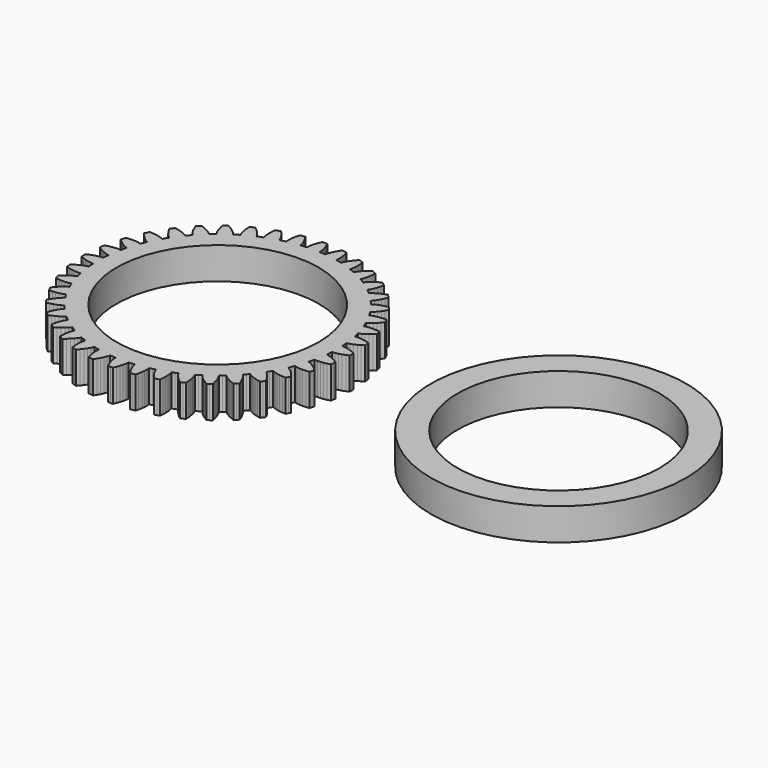
from build123d import *

# Parameters (mm, degrees)
F0_R     = 4.75
F1_DEPTH = 1.5
F2_R     = 6
F2_R_2   = 4.75
F3_DEPTH = 1.5


with BuildPart() as f1:
    # F0 (on Top) → F1 (new body)
    with BuildSketch(Plane.XY):
        Polygon((5.595243, -0.577821), (5.60766, -0.441332), (5.616748, -0.304581), (5.75245, -0.294828), (5.888982, -0.266302), (6.02578, -0.225568), (6.16253, -0.1745), (6.298967, -0.114093), (6.3, 0), (6.298967, 0.114093), (6.16253, 0.1745), (6.02578, 0.225568), (5.888982, 0.266302), (5.75245, 0.294828), (5.616748, 0.304581), (5.60766, 0.441332), (5.595243, 0.577821), (5.727749, 0.608683), (5.858138, 0.658216), (5.986879, 0.719849), (6.113957, 0.79168), (6.239264, 0.872687), (6.222437, 0.985537), (6.203568, 1.098064), (6.059361, 1.136384), (5.916306, 1.16543), (5.77482, 1.184263), (5.635506, 1.19108), (5.499949, 1.179484), (5.469581, 1.31313), (5.435965, 1.445996), (5.562012, 1.497207), (5.683047, 1.566527), (5.800561, 1.647541), (5.914838, 1.738367), (6.02593, 1.837978), (5.991656, 1.946807), (5.955417, 2.054997), (5.806991, 2.070286), (5.661153, 2.076596), (5.518463, 2.073064), (5.379798, 2.058003), (5.247724, 2.025345), (5.196822, 2.152594), (5.142836, 2.278566), (5.259319, 2.348864), (5.36802, 2.436265), (5.471414, 2.534664), (5.570076, 2.642249), (5.664218, 2.758013), (5.613341, 2.86014), (5.560623, 2.961329), (5.411633, 2.953211), (5.266603, 2.936629), (5.126223, 2.910819), (4.991621, 2.874251), (4.866282, 2.821334), (4.796101, 2.939054), (4.723073, 3.05503), (4.827125, 3.142684), (4.920815, 3.246014), (5.007543, 3.359376), (5.08816, 3.48107), (5.163034, 3.610136), (5.096807, 3.703047), (5.028909, 3.794743), (4.883023, 3.763418), (4.742373, 3.724352), (4.607758, 3.6769), (4.480534, 3.619726), (4.365016, 3.547853), (4.277284, 3.653145), (4.187012, 3.756269), (4.276071, 3.859121), (4.352443, 3.975835), (4.42037, 4.101369), (4.480957, 4.234176), (4.534718, 4.373366), (4.454773, 4.454773), (4.373366, 4.534718), (4.234176, 4.480957), (4.101369, 4.42037), (3.975835, 4.352443), (3.859121, 4.276071), (3.756269, 4.187012), (3.653145, 4.277284), (3.547853, 4.365016), (3.619726, 4.480534), (3.6769, 4.607758), (3.724352, 4.742373), (3.763418, 4.883023), (3.794743, 5.028909), (3.703047, 5.096807), (3.610136, 5.163034), (3.48107, 5.08816), (3.359376, 5.007543), (3.246014, 4.920815), (3.142684, 4.827125), (3.05503, 4.723073), (2.939054, 4.796101), (2.821334, 4.866282), (2.874251, 4.991621), (2.910819, 5.126223), (2.936629, 5.266603), (2.953211, 5.411633), (2.961329, 5.560623), (2.86014, 5.613341), (2.758013, 5.664218), (2.642249, 5.570076), (2.534664, 5.471414), (2.436265, 5.36802), (2.348864, 5.259319), (2.278566, 5.142836), (2.152594, 5.196822), (2.025345, 5.247724), (2.058003, 5.379798), (2.073064, 5.518463), (2.076596, 5.661153), (2.070286, 5.806991), (2.054997, 5.955417), (1.946807, 5.991656), (1.837978, 6.02593), (1.738367, 5.914838), (1.647541, 5.800561), (1.566527, 5.683047), (1.497207, 5.562012), (1.445996, 5.435965), (1.31313, 5.469581), (1.179484, 5.499949), (1.19108, 5.635506), (1.184263, 5.77482), (1.16543, 5.916306), (1.136384, 6.059361), (1.098064, 6.203568), (0.985537, 6.222437), (0.872687, 6.239264), (0.79168, 6.113957), (0.719849, 5.986879), (0.658216, 5.858138), (0.608683, 5.727749), (0.577821, 5.595243), (0.441332, 5.60766), (0.304581, 5.616748), (0.294828, 5.75245), (0.266302, 5.888982), (0.225568, 6.02578), (0.1745, 6.16253), (0.114093, 6.298967), (0, 6.3), (-0.114093, 6.298967), (-0.1745, 6.16253), (-0.225568, 6.02578), (-0.266302, 5.888982), (-0.294828, 5.75245), (-0.304581, 5.616748), (-0.441332, 5.60766), (-0.577821, 5.595243), (-0.608683, 5.727749), (-0.658216, 5.858138), (-0.719849, 5.986879), (-0.79168, 6.113957), (-0.872687, 6.239264), (-0.985537, 6.222437), (-1.098064, 6.203568), (-1.136384, 6.059361), (-1.16543, 5.916306), (-1.184263, 5.77482), (-1.19108, 5.635506), (-1.179484, 5.499949), (-1.31313, 5.469581), (-1.445996, 5.435965), (-1.497207, 5.562012), (-1.566527, 5.683047), (-1.647541, 5.800561), (-1.738367, 5.914838), (-1.837978, 6.02593), (-1.946807, 5.991656), (-2.054997, 5.955417), (-2.070286, 5.806991), (-2.076596, 5.661153), (-2.073064, 5.518463), (-2.058003, 5.379798), (-2.025345, 5.247724), (-2.152594, 5.196822), (-2.278566, 5.142836), (-2.348864, 5.259319), (-2.436265, 5.36802), (-2.534664, 5.471414), (-2.642249, 5.570076), (-2.758013, 5.664218), (-2.86014, 5.613341), (-2.961329, 5.560623), (-2.953211, 5.411633), (-2.936629, 5.266603), (-2.910819, 5.126223), (-2.874251, 4.991621), (-2.821334, 4.866282), (-2.939054, 4.796101), (-3.05503, 4.723073), (-3.142684, 4.827125), (-3.246014, 4.920815), (-3.359376, 5.007543), (-3.48107, 5.08816), (-3.610136, 5.163034), (-3.703047, 5.096807), (-3.794743, 5.028909), (-3.763418, 4.883023), (-3.724352, 4.742373), (-3.6769, 4.607758), (-3.619726, 4.480534), (-3.547853, 4.365016), (-3.653145, 4.277284), (-3.756269, 4.187012), (-3.859121, 4.276071), (-3.975835, 4.352443), (-4.101369, 4.42037), (-4.234176, 4.480957), (-4.373366, 4.534718), (-4.454773, 4.454773), (-4.534718, 4.373366), (-4.480957, 4.234176), (-4.42037, 4.101369), (-4.352443, 3.975835), (-4.276071, 3.859121), (-4.187012, 3.756269), (-4.277284, 3.653145), (-4.365016, 3.547853), (-4.480534, 3.619726), (-4.607758, 3.6769), (-4.742373, 3.724352), (-4.883023, 3.763418), (-5.028909, 3.794743), (-5.096807, 3.703047), (-5.163034, 3.610136), (-5.08816, 3.48107), (-5.007543, 3.359376), (-4.920815, 3.246014), (-4.827125, 3.142684), (-4.723073, 3.05503), (-4.796101, 2.939054), (-4.866282, 2.821334), (-4.991621, 2.874251), (-5.126223, 2.910819), (-5.266603, 2.936629), (-5.411633, 2.953211), (-5.560623, 2.961329), (-5.613341, 2.86014), (-5.664218, 2.758013), (-5.570076, 2.642249), (-5.471414, 2.534664), (-5.36802, 2.436265), (-5.259319, 2.348864), (-5.142836, 2.278566), (-5.196822, 2.152594), (-5.247724, 2.025345), (-5.379798, 2.058003), (-5.518463, 2.073064), (-5.661153, 2.076596), (-5.806991, 2.070286), (-5.955417, 2.054997), (-5.991656, 1.946807), (-6.02593, 1.837978), (-5.914838, 1.738367), (-5.800561, 1.647541), (-5.683047, 1.566527), (-5.562012, 1.497207), (-5.435965, 1.445996), (-5.469581, 1.31313), (-5.499949, 1.179484), (-5.635506, 1.19108), (-5.77482, 1.184263), (-5.916306, 1.16543), (-6.059361, 1.136384), (-6.203568, 1.098064), (-6.222437, 0.985537), (-6.239264, 0.872687), (-6.113957, 0.79168), (-5.986879, 0.719849), (-5.858138, 0.658216), (-5.727749, 0.608683), (-5.595243, 0.577821), (-5.60766, 0.441332), (-5.616748, 0.304581), (-5.75245, 0.294828), (-5.888982, 0.266302), (-6.02578, 0.225568), (-6.16253, 0.1745), (-6.298967, 0.114093), (-6.3, 0), (-6.298967, -0.114093), (-6.16253, -0.1745), (-6.02578, -0.225568), (-5.888982, -0.266302), (-5.75245, -0.294828), (-5.616748, -0.304581), (-5.60766, -0.441332), (-5.595243, -0.577821), (-5.727749, -0.608683), (-5.858138, -0.658216), (-5.986879, -0.719849), (-6.113957, -0.79168), (-6.239264, -0.872687), (-6.222437, -0.985537), (-6.203568, -1.098064), (-6.059361, -1.136384), (-5.916306, -1.16543), (-5.77482, -1.184263), (-5.635506, -1.19108), (-5.499949, -1.179484), (-5.469581, -1.31313), (-5.435965, -1.445996), (-5.562012, -1.497207), (-5.683047, -1.566527), (-5.800561, -1.647541), (-5.914838, -1.738367), (-6.02593, -1.837978), (-5.991656, -1.946807), (-5.955417, -2.054997), (-5.806991, -2.070286), (-5.661153, -2.076596), (-5.518463, -2.073064), (-5.379798, -2.058003), (-5.247724, -2.025345), (-5.196822, -2.152594), (-5.142836, -2.278566), (-5.259319, -2.348864), (-5.36802, -2.436265), (-5.471414, -2.534664), (-5.570076, -2.642249), (-5.664218, -2.758013), (-5.613341, -2.86014), (-5.560623, -2.961329), (-5.411633, -2.953211), (-5.266603, -2.936629), (-5.126223, -2.910819), (-4.991621, -2.874251), (-4.866282, -2.821334), (-4.796101, -2.939054), (-4.723073, -3.05503), (-4.827125, -3.142684), (-4.920815, -3.246014), (-5.007543, -3.359376), (-5.08816, -3.48107), (-5.163034, -3.610136), (-5.096807, -3.703047), (-5.028909, -3.794743), (-4.883023, -3.763418), (-4.742373, -3.724352), (-4.607758, -3.6769), (-4.480534, -3.619726), (-4.365016, -3.547853), (-4.277284, -3.653145), (-4.187012, -3.756269), (-4.276071, -3.859121), (-4.352443, -3.975835), (-4.42037, -4.101369), (-4.480957, -4.234176), (-4.534718, -4.373366), (-4.454773, -4.454773), (-4.373366, -4.534718), (-4.234176, -4.480957), (-4.101369, -4.42037), (-3.975835, -4.352443), (-3.859121, -4.276071), (-3.756269, -4.187012), (-3.653145, -4.277284), (-3.547853, -4.365016), (-3.619726, -4.480534), (-3.6769, -4.607758), (-3.724352, -4.742373), (-3.763418, -4.883023), (-3.794743, -5.028909), (-3.703047, -5.096807), (-3.610136, -5.163034), (-3.48107, -5.08816), (-3.359376, -5.007543), (-3.246014, -4.920815), (-3.142684, -4.827125), (-3.05503, -4.723073), (-2.939054, -4.796101), (-2.821334, -4.866282), (-2.874251, -4.991621), (-2.910819, -5.126223), (-2.936629, -5.266603), (-2.953211, -5.411633), (-2.961329, -5.560623), (-2.86014, -5.613341), (-2.758013, -5.664218), (-2.642249, -5.570076), (-2.534664, -5.471414), (-2.436265, -5.36802), (-2.348864, -5.259319), (-2.278566, -5.142836), (-2.152594, -5.196822), (-2.025345, -5.247724), (-2.058003, -5.379798), (-2.073064, -5.518463), (-2.076596, -5.661153), (-2.070286, -5.806991), (-2.054997, -5.955417), (-1.946807, -5.991656), (-1.837978, -6.02593), (-1.738367, -5.914838), (-1.647541, -5.800561), (-1.566527, -5.683047), (-1.497207, -5.562012), (-1.445996, -5.435965), (-1.31313, -5.469581), (-1.179484, -5.499949), (-1.19108, -5.635506), (-1.184263, -5.77482), (-1.16543, -5.916306), (-1.136384, -6.059361), (-1.098064, -6.203568), (-0.985537, -6.222437), (-0.872687, -6.239264), (-0.79168, -6.113957), (-0.719849, -5.986879), (-0.658216, -5.858138), (-0.608683, -5.727749), (-0.577821, -5.595243), (-0.441332, -5.60766), (-0.304581, -5.616748), (-0.294828, -5.75245), (-0.266302, -5.888982), (-0.225568, -6.02578), (-0.1745, -6.16253), (-0.114093, -6.298967), (0, -6.3), (0.114093, -6.298967), (0.1745, -6.16253), (0.225568, -6.02578), (0.266302, -5.888982), (0.294828, -5.75245), (0.304581, -5.616748), (0.441332, -5.60766), (0.577821, -5.595243), (0.608683, -5.727749), (0.658216, -5.858138), (0.719849, -5.986879), (0.79168, -6.113957), (0.872687, -6.239264), (0.985537, -6.222437), (1.098064, -6.203568), (1.136384, -6.059361), (1.16543, -5.916306), (1.184263, -5.77482), (1.19108, -5.635506), (1.179484, -5.499949), (1.31313, -5.469581), (1.445996, -5.435965), (1.497207, -5.562012), (1.566527, -5.683047), (1.647541, -5.800561), (1.738367, -5.914838), (1.837978, -6.02593), (1.946807, -5.991656), (2.054997, -5.955417), (2.070286, -5.806991), (2.076596, -5.661153), (2.073064, -5.518463), (2.058003, -5.379798), (2.025345, -5.247724), (2.152594, -5.196822), (2.278566, -5.142836), (2.348864, -5.259319), (2.436265, -5.36802), (2.534664, -5.471414), (2.642249, -5.570076), (2.758013, -5.664218), (2.86014, -5.613341), (2.961329, -5.560623), (2.953211, -5.411633), (2.936629, -5.266603), (2.910819, -5.126223), (2.874251, -4.991621), (2.821334, -4.866282), (2.939054, -4.796101), (3.05503, -4.723073), (3.142684, -4.827125), (3.246014, -4.920815), (3.359376, -5.007543), (3.48107, -5.08816), (3.610136, -5.163034), (3.703047, -5.096807), (3.794743, -5.028909), (3.763418, -4.883023), (3.724352, -4.742373), (3.6769, -4.607758), (3.619726, -4.480534), (3.547853, -4.365016), (3.653145, -4.277284), (3.756269, -4.187012), (3.859121, -4.276071), (3.975835, -4.352443), (4.101369, -4.42037), (4.234176, -4.480957), (4.373366, -4.534718), (4.454773, -4.454773), (4.534718, -4.373366), (4.480957, -4.234176), (4.42037, -4.101369), (4.352443, -3.975835), (4.276071, -3.859121), (4.187012, -3.756269), (4.277284, -3.653145), (4.365016, -3.547853), (4.480534, -3.619726), (4.607758, -3.6769), (4.742373, -3.724352), (4.883023, -3.763418), (5.028909, -3.794743), (5.096807, -3.703047), (5.163034, -3.610136), (5.08816, -3.48107), (5.007543, -3.359376), (4.920815, -3.246014), (4.827125, -3.142684), (4.723073, -3.05503), (4.796101, -2.939054), (4.866282, -2.821334), (4.991621, -2.874251), (5.126223, -2.910819), (5.266603, -2.936629), (5.411633, -2.953211), (5.560623, -2.961329), (5.613341, -2.86014), (5.664218, -2.758013), (5.570076, -2.642249), (5.471414, -2.534664), (5.36802, -2.436265), (5.259319, -2.348864), (5.142836, -2.278566), (5.196822, -2.152594), (5.247724, -2.025345), (5.379798, -2.058003), (5.518463, -2.073064), (5.661153, -2.076596), (5.806991, -2.070286), (5.955417, -2.054997), (5.991656, -1.946807), (6.02593, -1.837978), (5.914838, -1.738367), (5.800561, -1.647541), (5.683047, -1.566527), (5.562012, -1.497207), (5.435965, -1.445996), (5.469581, -1.31313), (5.499949, -1.179484), (5.635506, -1.19108), (5.77482, -1.184263), (5.916306, -1.16543), (6.059361, -1.136384), (6.203568, -1.098064), (6.222437, -0.985537), (6.239264, -0.872687), (6.113957, -0.79168), (5.986879, -0.719849), (5.858138, -0.658216), (5.727749, -0.608683), align=None)
        Circle(F0_R, mode=Mode.SUBTRACT)
    extrude(amount=F1_DEPTH)


with BuildPart() as f3:
    # F2 (on Top) → F3 (new body)
    with BuildSketch(Plane.XY):
        with Locations((16.024535, 0)):
            Circle(F2_R)
        with Locations((16.024535, 0)):
            Circle(F2_R_2, mode=Mode.SUBTRACT)
    extrude(amount=F3_DEPTH)


solid = Compound([f1.part, f3.part])
